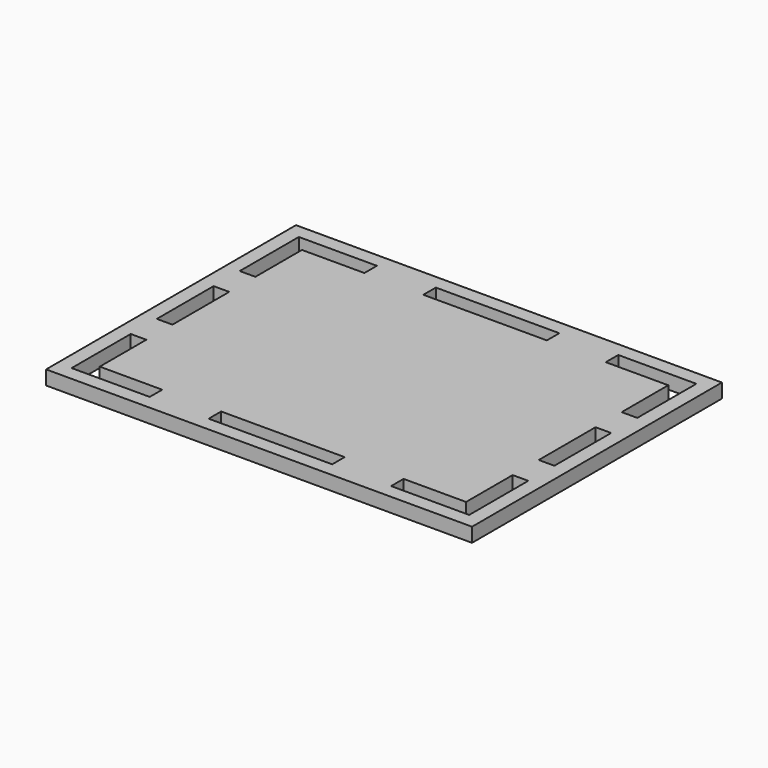
from build123d import *

# Parameters (mm, degrees)
F1_DEPTH = 10
F3_DEPTH = 10
F4_W     = 87
F4_H     = 11
F5_DEPTH = 10
F6_W     = 11
F6_H     = 50
F7_DEPTH = 10


with BuildPart() as f1:
    # F0 (on Top) → F1 (new body)
    with BuildSketch(Plane.XY):
        Polygon((150, 110), (-150, 110), (-150, -110), (-69, -110), (150, -110), align=None)
    extrude(amount=F1_DEPTH)

    # F2 (on face) → F3 (cut)
    with BuildSketch(Plane.XY.offset(10)):
        Polygon((140, 48), (140, 100), (85, 100), (85, 89), (129, 89), (129, 48), align=None)
        Polygon((-85, 100), (-140, 100), (-140, 48), (-129, 48), (-129, 89), (-85, 89), align=None)
        Polygon((-140, -48), (-140, -100), (-85, -100), (-85, -89), (-129, -89), (-129, -48), align=None)
        Polygon((85, -100), (140, -100), (140, -48), (129, -48), (129, -89), (85, -89), align=None)
    extrude(amount=-F3_DEPTH, mode=Mode.SUBTRACT)

    # F4 (on face) → F5 (cut)
    with BuildSketch(Plane.XY.offset(10)):
        with Locations((0, 94.5)):
            Rectangle(F4_W, F4_H)
        with Locations((0, -94.5)):
            Rectangle(F4_W, F4_H)
    extrude(amount=-F5_DEPTH, mode=Mode.SUBTRACT)

    # F6 (on face) → F7 (cut)
    with BuildSketch(Plane.XY.offset(10)):
        with Locations((-134.5, 0)):
            Rectangle(F6_W, F6_H)
        Polygon((140, -25), (140, 0), (140, 25), (129, 25), (129, -25), align=None)
    extrude(amount=-F7_DEPTH, mode=Mode.SUBTRACT)


solid = f1.part
